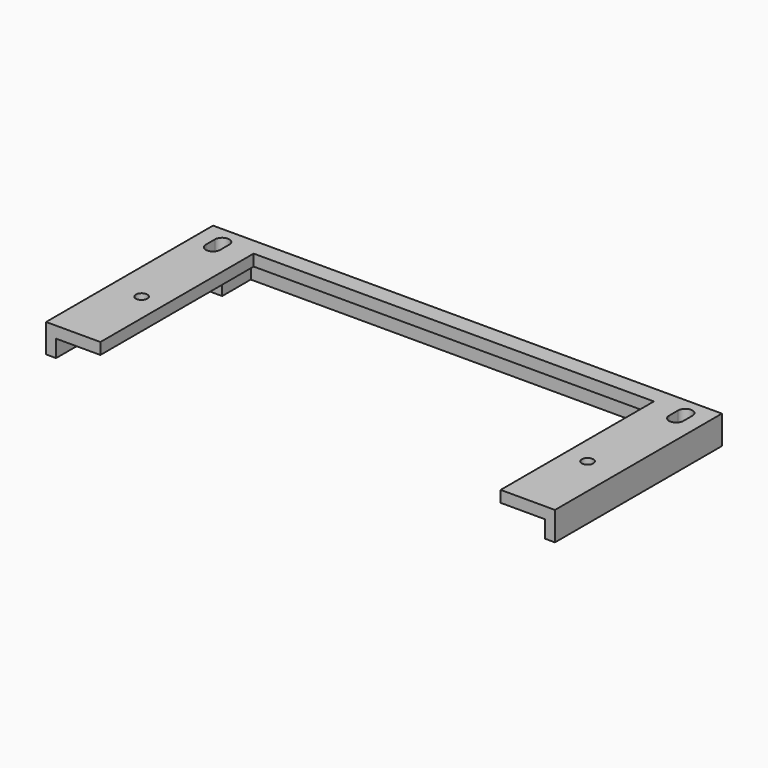
from build123d import *

# Parameters (mm, degrees)
F0_W      = 89
F0_H      = 45
F1_DEPTH  = 5
F2_W      = 70
F2_H      = 39
F3_DEPTH  = 25
F4_W      = 85.5
F4_H      = 41.5
F5_DEPTH  = 3
F6_W      = 8
F6_H      = 8
F7_DEPTH  = 3
F8_R      = 1
F9_DEPTH  = 25
F10_DEPTH = 25
F11_W     = 2.5
F11_H     = 2
F12_DEPTH = 25
F13_W     = 89
F13_H     = 8.5
F14_DEPTH = 25


with BuildPart() as f1:
    # F0 (on Top) → F1 (new body)
    with BuildSketch(Plane.XY):
        Rectangle(F0_W, F0_H)
    extrude(amount=F1_DEPTH)

    # F2 (on Top) → F3 (cut)
    with BuildSketch(Plane.XY):
        Rectangle(F2_W, F2_H)
    extrude(amount=F3_DEPTH, mode=Mode.SUBTRACT)

    # F4 (on Top) → F5 (cut)
    with BuildSketch(Plane.XY):
        Rectangle(F4_W, F4_H)
    extrude(amount=F5_DEPTH, mode=Mode.SUBTRACT)

    # F6 (on Top) → F7 (join)
    with BuildSketch(Plane.XY):
        with Locations((-40.5, 18.5)):
            Rectangle(F6_W, F6_H)
        with Locations((-40.5, -18.5)):
            Rectangle(F6_W, F6_H)
        with Locations((40.5, 18.5)):
            Rectangle(F6_W, F6_H)
        with Locations((40.5, -18.5)):
            Rectangle(F6_W, F6_H)
    extrude(amount=F7_DEPTH)

    # F8 (on Top) → F9 (cut)
    with BuildSketch(Plane.XY):
        with BuildLine():
            ThreePointArc((41.25, 18.5), (41.618034, 18.940983), (41.75, 19.5))
            ThreePointArc((41.75, 19.5), (39.940983, 20.618034), (39.75, 18.5))
            ThreePointArc((39.75, 18.5), (40.5, 18.75), (41.25, 18.5))
        make_face()
        with BuildLine():
            ThreePointArc((41.25, 18.5), (40.5, 18.25), (39.75, 18.5))
            ThreePointArc((39.75, 18.5), (39.940983, 16.381966), (41.75, 17.5))
            ThreePointArc((41.75, 17.5), (41.618034, 18.059017), (41.25, 18.5))
        make_face()
        with BuildLine():
            ThreePointArc((-39.75, 18.5), (-39.381966, 18.940983), (-39.25, 19.5))
            ThreePointArc((-39.25, 19.5), (-41.059017, 20.618034), (-41.25, 18.5))
            ThreePointArc((-41.25, 18.5), (-40.5, 18.75), (-39.75, 18.5))
        make_face()
        with BuildLine():
            ThreePointArc((-39.75, 18.5), (-40.5, 18.25), (-41.25, 18.5))
            ThreePointArc((-41.25, 18.5), (-41.059017, 16.381966), (-39.25, 17.5))
            ThreePointArc((-39.25, 17.5), (-39.381966, 18.059017), (-39.75, 18.5))
        make_face()
        with Locations((-39, 0)):
            Circle(F8_R)
        with Locations((39, 0)):
            Circle(F8_R)
    extrude(amount=F9_DEPTH, mode=Mode.SUBTRACT)

    # F8 (on Top) → F10 (cut)
    with BuildSketch(Plane.XY):
        with BuildLine():
            ThreePointArc((41.25, 18.5), (41.618034, 18.940983), (41.75, 19.5))
            ThreePointArc((41.75, 19.5), (39.940983, 20.618034), (39.75, 18.5))
            ThreePointArc((39.75, 18.5), (40.5, 18.75), (41.25, 18.5))
        make_face()
        with BuildLine():
            ThreePointArc((41.25, 18.5), (40.5, 18.25), (39.75, 18.5))
            ThreePointArc((39.75, 18.5), (39.940983, 16.381966), (41.75, 17.5))
            ThreePointArc((41.75, 17.5), (41.618034, 18.059017), (41.25, 18.5))
        make_face()
        with BuildLine():
            ThreePointArc((-39.75, 18.5), (-39.381966, 18.940983), (-39.25, 19.5))
            ThreePointArc((-39.25, 19.5), (-41.059017, 20.618034), (-41.25, 18.5))
            ThreePointArc((-41.25, 18.5), (-40.5, 18.75), (-39.75, 18.5))
        make_face()
        with BuildLine():
            ThreePointArc((-39.75, 18.5), (-40.5, 18.25), (-41.25, 18.5))
            ThreePointArc((-41.25, 18.5), (-41.059017, 16.381966), (-39.25, 17.5))
            ThreePointArc((-39.25, 17.5), (-39.381966, 18.059017), (-39.75, 18.5))
        make_face()
        with Locations((-39, 0)):
            Circle(F8_R)
        with Locations((39, 0)):
            Circle(F8_R)
    extrude(amount=F10_DEPTH, mode=Mode.SUBTRACT)

    # F11 (on face) → F12 (cut)
    with BuildSketch(Plane(origin=(0, 0, 0), x_dir=(1, 0, 0), z_dir=(0, 0, -1))):
        with Locations((-40.5, -18.5)):
            Rectangle(F11_W, F11_H)
        with Locations((40.5, -18.5)):
            Rectangle(F11_W, F11_H)
    extrude(amount=-F12_DEPTH, mode=Mode.SUBTRACT)

    # F13 (on face) → F14 (cut)
    with BuildSketch(Plane.XY.offset(5)):
        with Locations((0, -18.25)):
            Rectangle(F13_W, F13_H)
    extrude(amount=-F14_DEPTH, mode=Mode.SUBTRACT)


solid = f1.part
